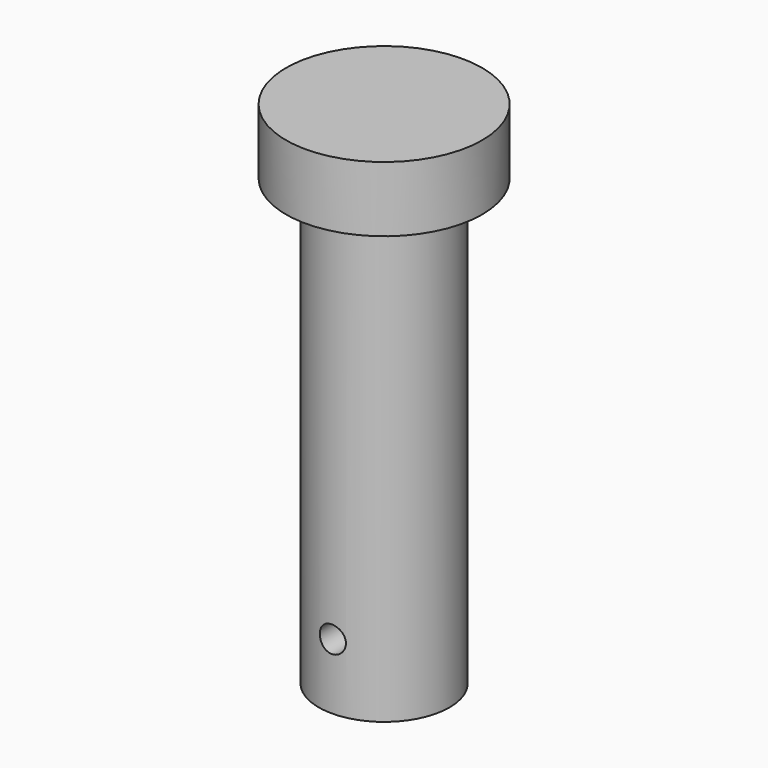
from build123d import *

# Parameters (mm, degrees)
SKETCH004_R          = 22.5
PAD003_DEPTH         = 15
SKETCH005_R          = 15
PAD004_DEPTH         = 102
SKETCH006_R          = 3
POCKET001_DEPTH      = 22.501
POCKET001_DEPTH_BACK = 22.501


with BuildPart() as part:
    # Sketch004 → Pad003 (new body)
    with BuildSketch(Plane.XY):
        Circle(SKETCH004_R)
    extrude(amount=PAD003_DEPTH)

    # Sketch005 (on Face2 of Pad003) → Pad004 (join)
    with BuildSketch(Plane(origin=(0, 0, 0), x_dir=(1, 0, 0), z_dir=(0, 0, -1))):
        Circle(SKETCH005_R)
    extrude(amount=PAD004_DEPTH)

    # Sketch006 → Pocket001 (cut, two sides)
    with BuildSketch(Plane.XZ) as pocket001_sk:
        with Locations((0, -87)):
            Circle(SKETCH006_R)
    extrude(amount=-POCKET001_DEPTH, mode=Mode.SUBTRACT)
    extrude(pocket001_sk.sketch, amount=POCKET001_DEPTH_BACK, mode=Mode.SUBTRACT)


solid = part.part
